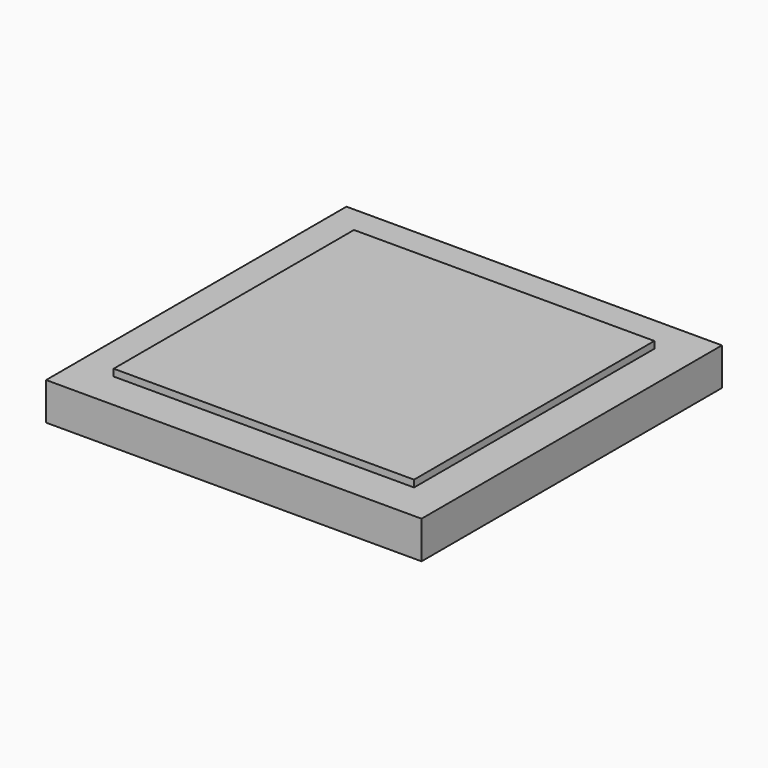
from build123d import *

# Parameters (mm, degrees)
F0_W     = 16.51
F0_H     = 16.51
F0_W_2   = 13.208
F0_H_2   = 13.208
F1_DEPTH = 1.651
F0_W_3   = 10
F0_H_3   = 10
F2_DEPTH = 0.5588
F3_DEPTH = 1.397
F4_DEPTH = 1.524


with BuildPart() as f1:
    # F0 (on Top) → F1 (new body)
    with BuildSketch(Plane.XY):
        Rectangle(F0_W, F0_H)
        Rectangle(F0_W_2, F0_H_2, mode=Mode.SUBTRACT)
    extrude(amount=F1_DEPTH)

    # F0 (on Top) → F2 (join)
    with BuildSketch(Plane.XY):
        Rectangle(F0_W, F0_H)
        Rectangle(F0_W_2, F0_H_2, mode=Mode.SUBTRACT)
        Rectangle(F0_W_2, F0_H_2)
        Rectangle(F0_W_3, F0_H_3, mode=Mode.SUBTRACT)
        Rectangle(F0_W_3, F0_H_3)
    extrude(amount=F2_DEPTH)

    # F3 (add): a face of the model
    f3_faces = [f1.faces().sort_by_distance(p)[0] for p in [
        (0, 0, 0.5588),
    ]]
    extrude(f3_faces, amount=F3_DEPTH)

    # F0 (on Top) → F4 (join)
    with BuildSketch(Plane.XY):
        Rectangle(F0_W_3, F0_H_3)
    extrude(amount=F4_DEPTH)


solid = f1.part
